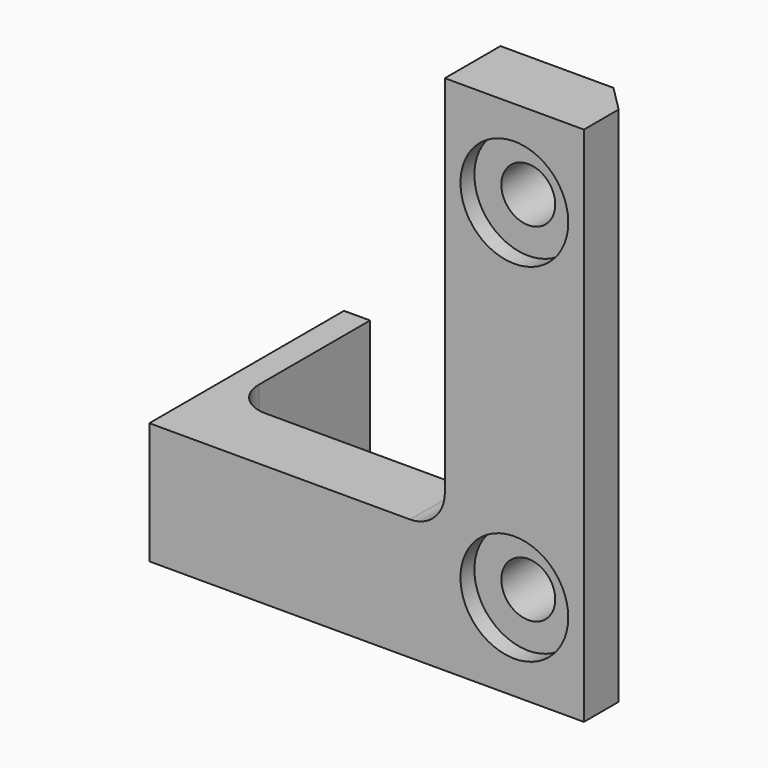
from build123d import *

# Parameters (mm, degrees)
F1_DEPTH       = 4
F3_D           = 3.1
F3_CBORE_D     = 6.2
F3_CBORE_DEPTH = 1
F4_W           = 1.5
F4_H           = 7
F5_DEPTH       = 10
F6_SIZE        = 1.5
F7_R           = 2


with BuildPart() as f1:
    # F0 (on Front) → F1 (new body)
    with BuildSketch(Plane.XZ):
        Polygon((-17, 0), (8, 0), (8, 30), (0, 30), (0, 7), (-17, 7), align=None)
    extrude(amount=F1_DEPTH)

    # F3 (through all)
    with Locations(Plane.XZ.offset(4)):
        with Locations((4, 25), (4, 5)):
            CounterBoreHole(F3_D / 2, F3_CBORE_D / 2, F3_CBORE_DEPTH)

    # F4 (on Front) → F5 (join)
    with BuildSketch(Plane.XZ):
        with Locations((-16.25, 3.5)):
            Rectangle(F4_W, F4_H)
    extrude(amount=-F5_DEPTH)

    # F6
    f6_edges = [f1.edges().sort_by_distance(p)[0] for p in [
        (8, 0, 15),
    ]]
    chamfer(f6_edges, length=F6_SIZE)

    # F7
    f7_edges = [f1.edges().sort_by_distance(p)[0] for p in [
        (-15.5, 0, 3.5),
        (0, -2, 7),
    ]]
    fillet(f7_edges, radius=F7_R)


solid = f1.part
